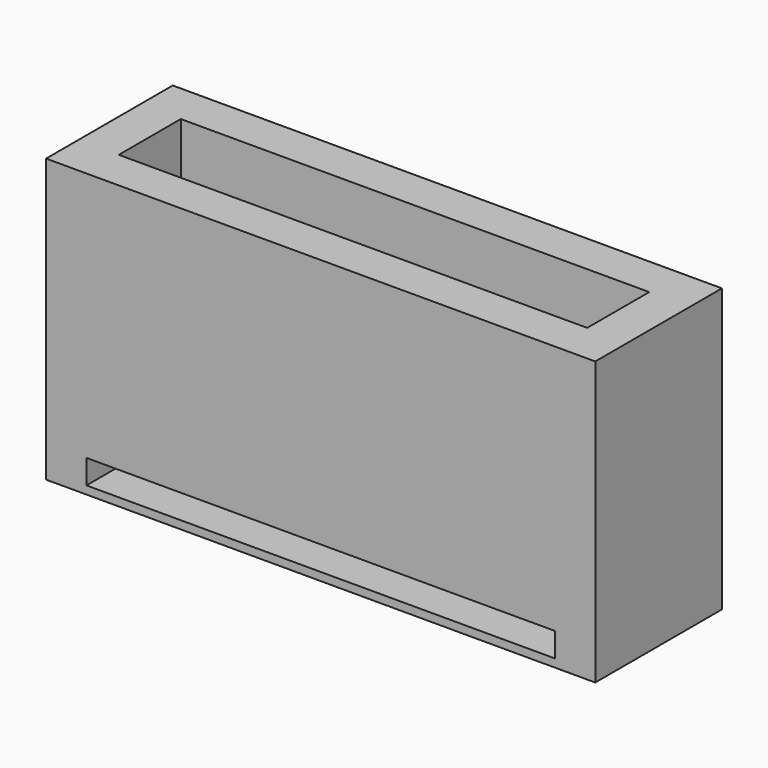
from build123d import *

# Parameters (mm, degrees)
F0_W        = 86.36
F0_H        = 24.892
F0_W_2      = 73.66
F0_H_2      = 12.192
F1_DEPTH    = 19.05
F1_FACE_W   = 86.36
F1_FACE_H   = 24.892
F1_FACE_W_2 = 73.66
F1_FACE_H_2 = 12.192
F2_DEPTH    = 12.7
F3_W        = 2.54
F3_H        = 12.192
F3_W_2      = 5.08
F4_DEPTH    = 6.35
F3_W_3      = 86.36
F3_H_2      = 24.892
F5_DEPTH    = 12.7
F7_W        = 73.66
F7_H        = 12.192
F8_DEPTH    = 2.54
F6_W        = 73.66
F6_H        = 3.81
F9_DEPTH    = 18.542


with BuildPart() as f1:
    # F0 (on Top) → F1 (new body)
    with BuildSketch(Plane.XY):
        Rectangle(F0_W, F0_H)
        Rectangle(F0_W_2, F0_H_2, mode=Mode.SUBTRACT)
    extrude(amount=F1_DEPTH)

    # F1_face (on face) → F2 (join)
    with BuildSketch(Plane(origin=(0, 0, 0), x_dir=(1, 0, 0), z_dir=(0, 0, -1))):
        Rectangle(F1_FACE_W, F1_FACE_H)
        Rectangle(F1_FACE_W_2, F1_FACE_H_2, mode=Mode.SUBTRACT)
    extrude(amount=F2_DEPTH)

    # F3 (on face) → F4 (join)
    with BuildSketch(Plane(origin=(0, 0, -12.7), x_dir=(1, 0, 0), z_dir=(0, 0, -1))):
        with Locations((-31.75, 0)):
            Rectangle(F3_W, F3_H)
        Rectangle(F3_W_2, F3_H)
        with Locations((31.75, 0)):
            Rectangle(F3_W, F3_H)
    extrude(amount=-F4_DEPTH)

    # F3 (on face) → F5 (join)
    with BuildSketch(Plane(origin=(0, 0, -12.7), x_dir=(1, 0, 0), z_dir=(0, 0, -1))):
        Rectangle(F3_W_3, F3_H_2)
        Polygon((-2.54, 6.096), (2.54, 6.096), (30.48, 6.096), (33.02, 6.096), (36.83, 6.096), (36.83, -6.096), (33.02, -6.096), (30.48, -6.096), (2.54, -6.096), (-2.54, -6.096), (-30.48, -6.096), (-33.02, -6.096), (-36.83, -6.096), (-36.83, 6.096), (-33.02, 6.096), (-30.48, 6.096), align=None, mode=Mode.SUBTRACT)
    extrude(amount=F5_DEPTH)

    # F7 (on face) → F8 (join)
    with BuildSketch(Plane(origin=(0, 0, -25.4), x_dir=(1, 0, 0), z_dir=(0, 0, -1))):
        Rectangle(F7_W, F7_H)
    extrude(amount=-F8_DEPTH)

    # F6 (on face) → F9 (cut)
    with BuildSketch(Plane.XZ.offset(12.446)):
        with Locations((0, -22.225)):
            Rectangle(F6_W, F6_H)
    extrude(amount=-F9_DEPTH, mode=Mode.SUBTRACT)


solid = f1.part
